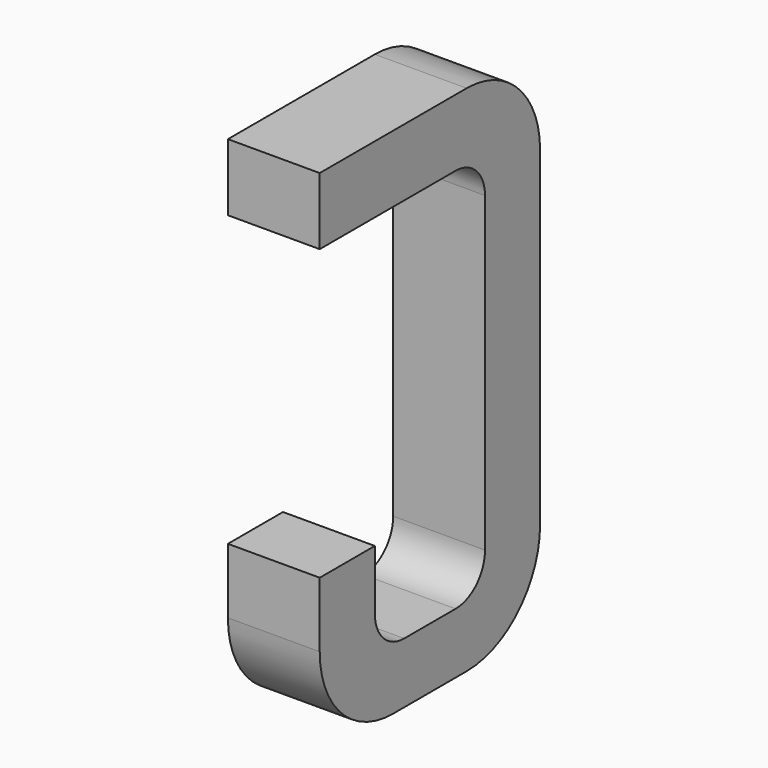
from build123d import *

# Parameters (mm, degrees)
BOX129_W     = 0.5
BOX129_H     = 1.5
BOX129_DEPTH = 2.795
FILLET302_R  = 0.5
FILLET313_R  = 0.5
FILLET325_R  = 0.5
BOX139_W     = 0.75
BOX139_H     = 2.1
BOX139_DEPTH = 1
FILLET315_R  = 0.2
FILLET307_R  = 0.2
FILLET303_R  = 0.2
FILLET326_R  = 0.2
BOX145_W     = 1
BOX145_H     = 1.575
BOX145_DEPTH = 3


with BuildPart() as part:
    # Box129 → Box129 (join)
    with BuildSketch(Plane(origin=(-0.25, 11.125, 0), x_dir=(1, 0, 0), z_dir=(0, 0, 1))):
        with Locations((0.25, 0.75)):
            Rectangle(BOX129_W, BOX129_H)
    extrude(amount=BOX129_DEPTH)

    # Fillet302
    fillet302_edges = [part.edges().sort_by_distance(p)[0] for p in [
        (0, 12.625, 0),
    ]]
    fillet(fillet302_edges, radius=FILLET302_R)

    # Fillet313
    fillet313_edges = [part.edges().sort_by_distance(p)[0] for p in [
        (0, 12.625, 2.795),
    ]]
    fillet(fillet313_edges, radius=FILLET313_R)

    # Fillet325
    fillet325_edges = [part.edges().sort_by_distance(p)[0] for p in [
        (0, 11.125, 0),
    ]]
    fillet(fillet325_edges, radius=FILLET325_R)

    # Box139 → Box139 (cut)
    with BuildSketch(Plane(origin=(-0.5, 11.5, 0.33), x_dir=(0, 1, 0), z_dir=(1, 0, 0))):
        with Locations((0.375, 1.05)):
            Rectangle(BOX139_W, BOX139_H)
    extrude(amount=BOX139_DEPTH, mode=Mode.SUBTRACT)

    # Fillet315
    fillet315_edges = [part.edges().sort_by_distance(p)[0] for p in [
        (0, 11.5, 0.33),
    ]]
    fillet(fillet315_edges, radius=FILLET315_R)

    # Fillet307
    fillet307_edges = [part.edges().sort_by_distance(p)[0] for p in [
        (0, 12.25, 0.33),
    ]]
    fillet(fillet307_edges, radius=FILLET307_R)

    # Fillet303
    fillet303_edges = [part.edges().sort_by_distance(p)[0] for p in [
        (0, 11.5, 2.43),
    ]]
    fillet(fillet303_edges, radius=FILLET303_R)

    # Fillet326
    fillet326_edges = [part.edges().sort_by_distance(p)[0] for p in [
        (0, 12.25, 2.43),
    ]]
    fillet(fillet326_edges, radius=FILLET326_R)

    # Box145 → Box145 (cut)
    with BuildSketch(Plane(origin=(-1, 11, 0.855), x_dir=(0, 1, 0), z_dir=(1, 0, 0))):
        with Locations((0.5, 0.7875)):
            Rectangle(BOX145_W, BOX145_H)
    extrude(amount=BOX145_DEPTH, mode=Mode.SUBTRACT)


with BuildPart() as part_1:
    # Body046 placement: moved
    add(part.part.moved(Location((-7.62, 0, 0))))


solid = part_1.part
